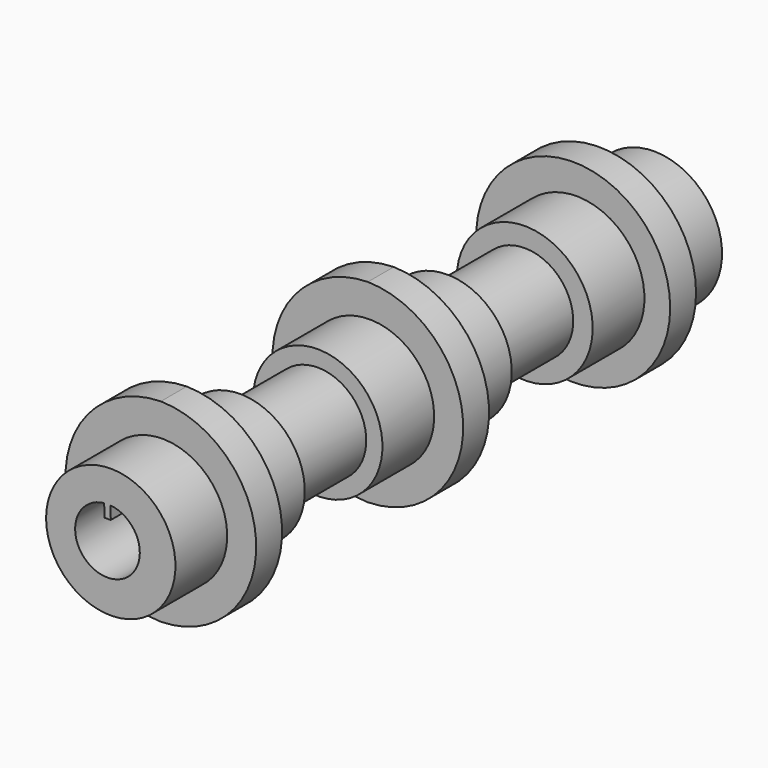
from build123d import *

# Parameters (mm, degrees)
F0_R     = 76.2
F1_DEPTH = 533.4


with BuildPart() as f1:
    # F0 (on Front) → F1 (new body)
    with BuildSketch(Plane.XZ):
        Circle(F0_R)
        with BuildLine():
            ThreePointArc((2.540587, 25.272622), (-0.000565, -25.4), (-2.539463, 25.272735))
            Line((-2.539463, 25.272735), (-2.495172, 15.24))
            Line((-2.495172, 15.24), (2.584878, 15.24))
            Line((2.584878, 15.24), (2.540587, 25.272622))
        make_face(mode=Mode.SUBTRACT)
    extrude(amount=F1_DEPTH)

    # F2 (on Top) → F3 (revolve, cut)
    with BuildSketch(Plane.XY):
        Polygon((-50.8, -50.8), (-50.8, 0), (-89.3064, 0), (-89.3064, -127), (-89.3064, -203.2), (-89.3064, -330.2), (-86.315122, -406.4), (-86.315122, -533.4), (-48.215122, -533.4), (-48.215122, -482.6), (-73.615122, -482.6), (-73.615122, -457.2), (-48.215122, -457.2), (-48.215122, -406.4), (-35.515122, -406.4), (-35.515122, -330.2), (-48.215122, -330.2), (-48.215122, -279.4), (-73.615122, -279.4), (-73.615122, -254), (-48.215122, -254), (-48.215122, -203.2), (-35.515122, -203.2), (-35.515122, -127), (-50.8, -127), (-50.8, -76.2), (-76.2, -76.2), (-76.2, -50.8), align=None)
    revolve(axis=Axis((2.584878, -165.1, 0), (0, -1, 0)), mode=Mode.SUBTRACT)


solid = f1.part
